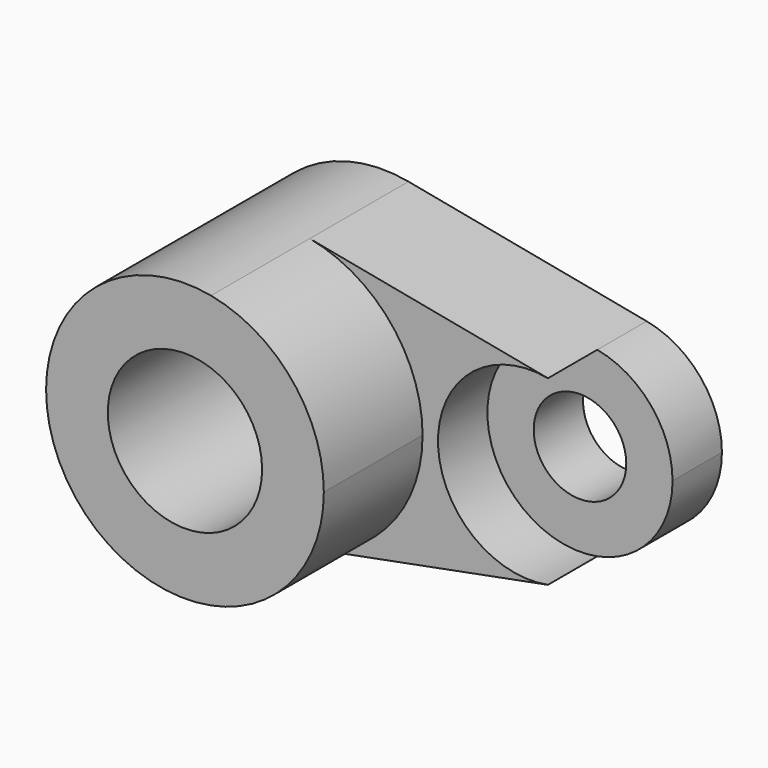
from build123d import *

# Parameters (mm, degrees)
F1_DEPTH = 25.4
F0_R     = 15.875
F2_DEPTH = 50.8
F0_R_2   = 9.525
F3_DEPTH = 12.7


with BuildPart() as f1:
    # F0 (on Front) → F1 (new body)
    with BuildSketch(Plane.XZ):
        with BuildLine():
            ThreePointArc((5.357812, 28.068211), (22.018516, 18.21306), (28.575, 0))
            ThreePointArc((28.575, 0), (22.018516, -18.21306), (5.357812, -28.068211))
            Line((5.357813, -28.068211), (54.371875, -18.712141))
            ThreePointArc((54.371875, -18.712141), (31.75, 0), (54.371875, 18.712141))
            Line((54.371875, 18.712141), (5.357812, 28.068211))
        make_face()
    extrude(amount=F1_DEPTH)

    # F0 (on Front) → F2 (join)
    with BuildSketch(Plane.XZ):
        with BuildLine():
            ThreePointArc((5.357812, -28.068211), (22.018516, -18.21306), (28.575, 0))
            ThreePointArc((28.575, 0), (22.018516, 18.21306), (5.357812, 28.068211))
            ThreePointArc((5.357812, 28.068211), (-28.575, 0), (5.357812, -28.068211))
        make_face()
        Circle(F0_R, mode=Mode.SUBTRACT)
    extrude(amount=F2_DEPTH)

    # F0 (on Front) → F3 (join)
    with BuildSketch(Plane.XZ):
        with BuildLine():
            ThreePointArc((69.85, 0), (65.479011, 12.14204), (54.371875, 18.712141))
            ThreePointArc((54.371875, 18.712141), (31.75, 0), (54.371875, -18.712141))
            ThreePointArc((54.371875, -18.712141), (65.479011, -12.14204), (69.85, 0))
        make_face()
        with Locations((50.8, 0)):
            Circle(F0_R_2, mode=Mode.SUBTRACT)
    extrude(amount=F3_DEPTH)


solid = f1.part
